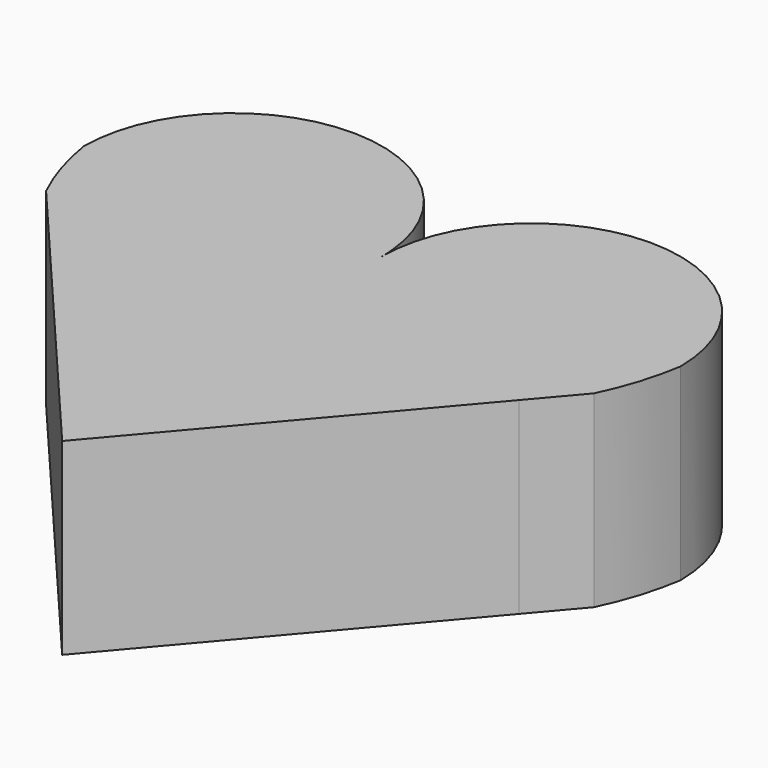
from build123d import *

# Parameters (mm, degrees)
F1_DEPTH = 25.4


with BuildPart() as f1:
    # F0 (on Top) → F1 (new body)
    with BuildSketch(Plane.XY):
        with BuildLine():
            ThreePointArc((40.239785, 0), (20.119892, 20.119892), (0, 0))
            Line((0, 0), (0, -2.410672))
            ThreePointArc((0, -2.410672), (-0.140782, -0.355637), (-0.072209, 1.703073))
            ThreePointArc((-0.072209, 1.703073), (-20.972194, 20.101832), (-40.239785, 0))
            ThreePointArc((-40.239785, 0), (-38.985139, -5.355776), (-36.955726, -10.4685))
            Line((-36.955726, -10.4685), (0, -53.948961))
            Line((0, -53.948961), (31.748506, -16.595082))
            Line((31.748506, -16.595082), (36.955726, -10.4685))
            ThreePointArc((36.955726, -10.4685), (38.985139, -5.355776), (40.239785, 0))
        make_face()
        with BuildLine():
            Line((0, -2.410672), (0, 0))
            ThreePointArc((0, 0), (-0.01806, 0.852301), (-0.072209, 1.703073))
            ThreePointArc((-0.072209, 1.703073), (-0.140782, -0.355637), (0, -2.410672))
        make_face()
        with BuildLine():
            ThreePointArc((40.239785, 0), (20.119892, 20.119892), (0, 0))
            Line((0, 0), (0, -2.410672))
            ThreePointArc((0, -2.410672), (-0.140782, -0.355637), (-0.072209, 1.703073))
            ThreePointArc((-0.072209, 1.703073), (-20.972194, 20.101832), (-40.239785, 0))
            ThreePointArc((-40.239785, 0), (-38.985139, -5.355776), (-36.955726, -10.4685))
            Line((-36.955726, -10.4685), (0, -53.948961))
            Line((0, -53.948961), (31.748506, -16.595082))
            Line((31.748506, -16.595082), (36.955726, -10.4685))
            ThreePointArc((36.955726, -10.4685), (38.985139, -5.355776), (40.239785, 0))
        make_face()
    extrude(amount=F1_DEPTH)


solid = f1.part
